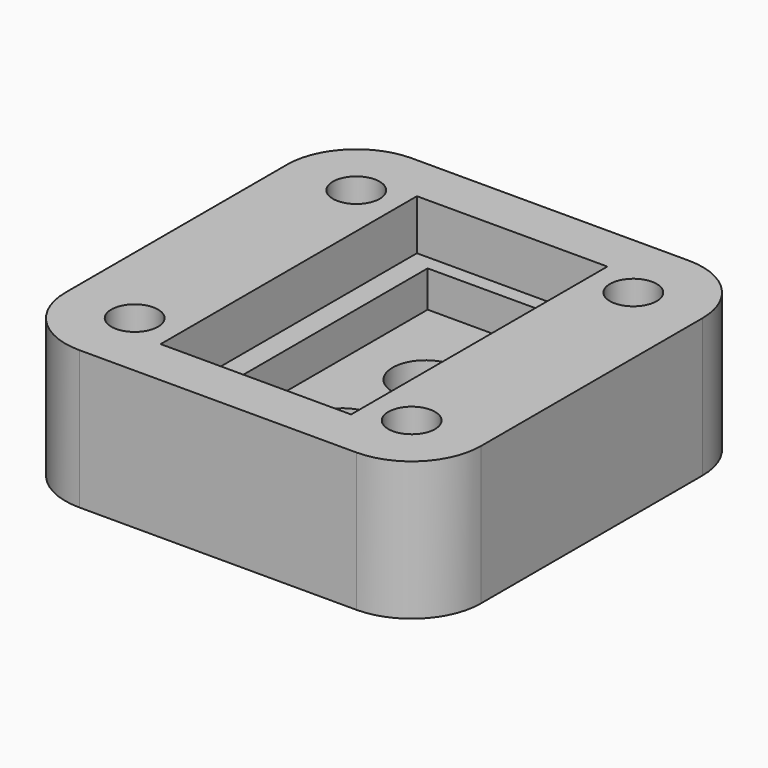
from build123d import *

# Parameters (mm, degrees)
F0_W     = 24
F0_H     = 24
F0_R     = 1.35
F0_R_2   = 1.9
F1_DEPTH = 8
F2_W     = 8.4
F2_H     = 16.8
F2_R     = 1.9
F3_DEPTH = 5
F2_W_2   = 11
F2_H_2   = 18.5
F4_DEPTH = 2.9
F5_R     = 4


with BuildPart() as f1:
    # F0 (on Top) → F1 (new body)
    with BuildSketch(Plane.XY):
        Rectangle(F0_W, F0_H)
        with Locations((-8, -8)):
            Circle(F0_R, mode=Mode.SUBTRACT)
        with Locations((8, -8)):
            Circle(F0_R, mode=Mode.SUBTRACT)
        with Locations((0, -3)):
            Circle(F0_R_2, mode=Mode.SUBTRACT)
        with Locations((-8, 8)):
            Circle(F0_R, mode=Mode.SUBTRACT)
        with Locations((0, 3)):
            Circle(F0_R_2, mode=Mode.SUBTRACT)
        with Locations((8, 8)):
            Circle(F0_R, mode=Mode.SUBTRACT)
    extrude(amount=F1_DEPTH)

    # F2 (on face) → F3 (cut)
    with BuildSketch(Plane.XY.offset(8)):
        Rectangle(F2_W, F2_H)
        with Locations((0, -3)):
            Circle(F2_R, mode=Mode.SUBTRACT)
        with Locations((0, 3)):
            Circle(F2_R, mode=Mode.SUBTRACT)
    extrude(amount=-F3_DEPTH, mode=Mode.SUBTRACT)

    # F2 (on face) → F4 (cut)
    with BuildSketch(Plane.XY.offset(8)):
        Rectangle(F2_W_2, F2_H_2)
        Rectangle(F2_W, F2_H, mode=Mode.SUBTRACT)
    extrude(amount=-F4_DEPTH, mode=Mode.SUBTRACT)

    # F5
    f5_edges = [f1.edges().sort_by_distance(p)[0] for p in [
        (-12, 12, 4),
        (12, 12, 4),
        (12, -12, 4),
        (-12, -12, 4),
    ]]
    fillet(f5_edges, radius=F5_R)


solid = f1.part
